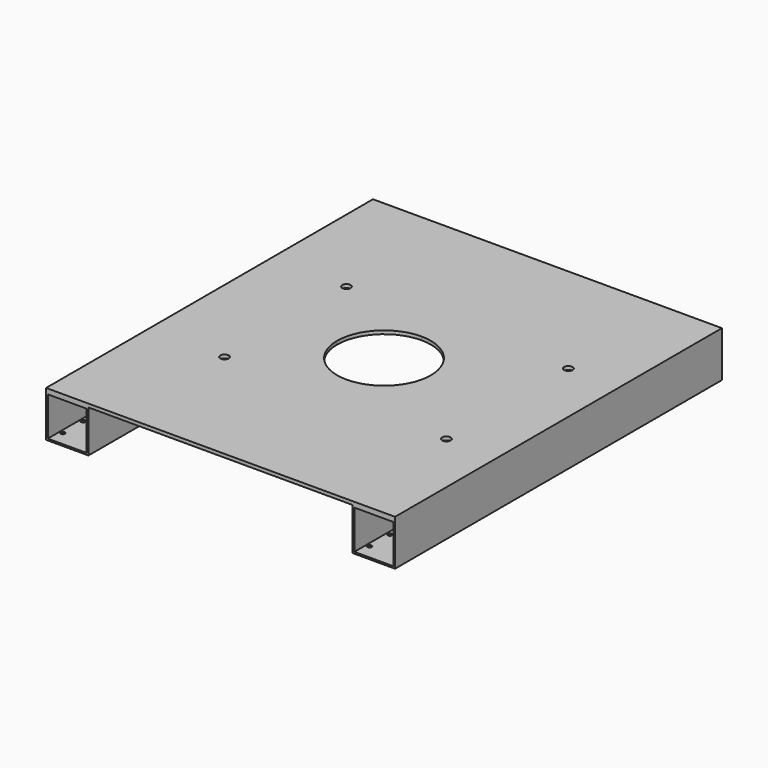
from build123d import *

# Parameters (mm, degrees)
F0_W      = 46
F0_H      = 46
F1_DEPTH  = 482.44
F3_DEPTH  = 25
F5_DEPTH  = 25
F7_DEPTH  = 25
F8_DEPTH  = 25
F9_DEPTH  = 25
F11_DEPTH = 25
F12_DEPTH = 25


with BuildPart() as f1:
    # F0 (on Front) → F1 (new body)
    with BuildSketch(Plane.XZ):
        Polygon((352.900836, -54), (352.900836, -4), (304.900836, -4), (302.900836, -4), (302.900836, -54), align=None)
        with Locations((327.900836, -29)):
            Rectangle(F0_W, F0_H, mode=Mode.SUBTRACT)
        Polygon((352.900836, -4), (352.900836, 0), (-59.099164, 0), (-59.099164, -4), (-57.099164, -4), (-9.099164, -4), (302.900836, -4), (304.900836, -4), align=None)
        Polygon((-57.099164, -4), (-59.099164, -4), (-59.099164, -54), (-9.099164, -54), (-9.099164, -4), align=None)
        with Locations((-34.099164, -29)):
            Rectangle(F0_W, F0_H, mode=Mode.SUBTRACT)
    extrude(amount=F1_DEPTH)

    # F2 (on face) → F3 (cut)
    with BuildSketch(Plane.XY):
        with BuildLine():
            ThreePointArc((202.150836, -241.22), (185.968486, -202.15235), (146.900836, -185.97))
            Line((146.900836, -185.97), (146.900836, -241.22))
            Line((146.900836, -241.22), (202.150836, -241.22))
        make_face()
        with BuildLine():
            Line((146.900836, -241.22), (146.900836, -185.97))
            ThreePointArc((146.900836, -185.97), (107.833186, -202.15235), (91.650836, -241.22))
            Line((91.650836, -241.22), (146.900836, -241.22))
        make_face()
        with BuildLine():
            Line((202.150836, -241.22), (146.900836, -241.22))
            Line((146.900836, -241.22), (146.900836, -296.47))
            ThreePointArc((146.900836, -296.47), (185.968486, -280.28765), (202.150836, -241.22))
        make_face()
        with BuildLine():
            Line((146.900836, -296.47), (146.900836, -241.22))
            Line((146.900836, -241.22), (91.650836, -241.22))
            ThreePointArc((91.650836, -241.22), (107.833186, -280.28765), (146.900836, -296.47))
        make_face()
    extrude(amount=-F3_DEPTH, mode=Mode.SUBTRACT)

    # F4 (on face) → F5 (cut)
    with BuildSketch(Plane(origin=(0, 0, -54), x_dir=(1, 0, 0), z_dir=(0, 0, -1))):
        with BuildLine():
            Line((-14.969164, 47.38), (-17.469164, 47.38))
            ThreePointArc((-17.469164, 47.38), (-16.736931, 45.612233), (-14.969164, 44.88))
            Line((-14.969164, 44.88), (-14.969164, 47.38))
        make_face()
        with BuildLine():
            ThreePointArc((-12.469164, 47.38), (-14.969164, 49.88), (-17.469164, 47.38))
            Line((-17.469164, 47.38), (-14.969164, 47.38))
            Line((-14.969164, 47.38), (-14.969164, 44.88))
            ThreePointArc((-14.969164, 44.88), (-13.201397, 45.612233), (-12.469164, 47.38))
        make_face()
        with BuildLine():
            ThreePointArc((-50.469164, 47.38), (-54.736931, 49.147767), (-52.969164, 44.88))
            Line((-52.969164, 44.88), (-52.969164, 47.38))
            Line((-52.969164, 47.38), (-50.469164, 47.38))
        make_face()
        with BuildLine():
            Line((-52.969164, 47.38), (-52.969164, 44.88))
            ThreePointArc((-52.969164, 44.88), (-51.201397, 45.612233), (-50.469164, 47.38))
            Line((-50.469164, 47.38), (-52.969164, 47.38))
        make_face()
        with BuildLine():
            ThreePointArc((-52.969164, 19.88), (-54.736931, 19.147767), (-55.469164, 17.38))
            Line((-55.469164, 17.38), (-52.969164, 17.38))
            Line((-52.969164, 17.38), (-52.969164, 19.88))
        make_face()
        with BuildLine():
            Line((-52.969164, 17.38), (-55.469164, 17.38))
            ThreePointArc((-55.469164, 17.38), (-52.969164, 14.88), (-50.469164, 17.38))
            ThreePointArc((-50.469164, 17.38), (-51.201397, 19.147767), (-52.969164, 19.88))
            Line((-52.969164, 19.88), (-52.969164, 17.38))
        make_face()
        with BuildLine():
            ThreePointArc((-12.469164, 17.38), (-13.201397, 19.147767), (-14.969164, 19.88))
            ThreePointArc((-14.969164, 19.88), (-16.736931, 15.612233), (-12.469164, 17.38))
        make_face()
    extrude(amount=-F5_DEPTH, mode=Mode.SUBTRACT)

    # F6 (on face) → F7 (cut)
    with BuildSketch(Plane(origin=(0, 0, -54), x_dir=(1, 0, 0), z_dir=(0, 0, -1))):
        with BuildLine():
            ThreePointArc((349.499777, 465.059994), (345.23201, 466.827761), (346.999777, 462.559994))
            ThreePointArc((346.999777, 462.559994), (348.767544, 463.292228), (349.499777, 465.059994))
        make_face()
        with BuildLine():
            Line((346.999777, 435.059994), (344.499777, 435.059994))
            ThreePointArc((344.499777, 435.059994), (346.999777, 432.559994), (349.499777, 435.059994))
            ThreePointArc((349.499777, 435.059994), (348.767544, 436.827761), (346.999777, 437.559994))
            Line((346.999777, 437.559994), (346.999777, 435.059994))
        make_face()
        with BuildLine():
            ThreePointArc((346.999777, 437.559994), (345.23201, 436.827761), (344.499777, 435.059994))
            Line((344.499777, 435.059994), (346.999777, 435.059994))
            Line((346.999777, 435.059994), (346.999777, 437.559994))
        make_face()
        with BuildLine():
            Line((308.999777, 435.059994), (308.999777, 437.559994))
            ThreePointArc((308.999777, 437.559994), (307.23201, 433.292228), (311.499777, 435.059994))
            Line((311.499777, 435.059994), (308.999777, 435.059994))
        make_face()
        with BuildLine():
            ThreePointArc((311.499777, 435.059994), (310.767544, 436.827761), (308.999777, 437.559994))
            Line((308.999777, 437.559994), (308.999777, 435.059994))
            Line((308.999777, 435.059994), (311.499777, 435.059994))
        make_face()
        with BuildLine():
            Line((308.999777, 465.059994), (306.499777, 465.059994))
            ThreePointArc((306.499777, 465.059994), (307.23201, 463.292228), (308.999777, 462.559994))
            Line((308.999777, 462.559994), (308.999777, 465.059994))
        make_face()
        with BuildLine():
            ThreePointArc((311.499777, 465.059994), (308.999777, 467.559994), (306.499777, 465.059994))
            Line((306.499777, 465.059994), (308.999777, 465.059994))
            Line((308.999777, 465.059994), (308.999777, 462.559994))
            ThreePointArc((308.999777, 462.559994), (310.767544, 463.292228), (311.499777, 465.059994))
        make_face()
    extrude(amount=-F7_DEPTH, mode=Mode.SUBTRACT)

    # F6 (on face) → F8 (cut)
    with BuildSketch(Plane(origin=(0, 0, -54), x_dir=(1, 0, 0), z_dir=(0, 0, -1))):
        with BuildLine():
            ThreePointArc((-12.599137, 465.059994), (-16.866904, 466.827761), (-15.099137, 462.559994))
            ThreePointArc((-15.099137, 462.559994), (-13.33137, 463.292228), (-12.599137, 465.059994))
        make_face()
        with BuildLine():
            ThreePointArc((-50.599137, 465.059994), (-53.099137, 467.559994), (-55.599137, 465.059994))
            Line((-55.599137, 465.059994), (-53.099137, 465.059994))
            Line((-53.099137, 465.059994), (-53.099137, 462.559994))
            ThreePointArc((-53.099137, 462.559994), (-51.33137, 463.292228), (-50.599137, 465.059994))
        make_face()
        with BuildLine():
            Line((-53.099137, 465.059994), (-55.599137, 465.059994))
            ThreePointArc((-55.599137, 465.059994), (-54.866904, 463.292228), (-53.099137, 462.559994))
            Line((-53.099137, 462.559994), (-53.099137, 465.059994))
        make_face()
        with BuildLine():
            Line((-53.099137, 435.059994), (-53.099137, 437.559994))
            ThreePointArc((-53.099137, 437.559994), (-54.866904, 433.292228), (-50.599137, 435.059994))
            Line((-50.599137, 435.059994), (-53.099137, 435.059994))
        make_face()
        with BuildLine():
            ThreePointArc((-50.599137, 435.059994), (-51.33137, 436.827761), (-53.099137, 437.559994))
            Line((-53.099137, 437.559994), (-53.099137, 435.059994))
            Line((-53.099137, 435.059994), (-50.599137, 435.059994))
        make_face()
        with BuildLine():
            ThreePointArc((-15.099137, 437.559994), (-16.866904, 436.827761), (-17.599137, 435.059994))
            Line((-17.599137, 435.059994), (-15.099137, 435.059994))
            Line((-15.099137, 435.059994), (-15.099137, 437.559994))
        make_face()
        with BuildLine():
            Line((-15.099137, 435.059994), (-17.599137, 435.059994))
            ThreePointArc((-17.599137, 435.059994), (-15.099137, 432.559994), (-12.599137, 435.059994))
            ThreePointArc((-12.599137, 435.059994), (-13.33137, 436.827761), (-15.099137, 437.559994))
            Line((-15.099137, 437.559994), (-15.099137, 435.059994))
        make_face()
    extrude(amount=-F8_DEPTH, mode=Mode.SUBTRACT)

    # F4 (on face) → F9 (cut)
    with BuildSketch(Plane(origin=(0, 0, -54), x_dir=(1, 0, 0), z_dir=(0, 0, -1))):
        with BuildLine():
            ThreePointArc((-52.969164, 19.88), (-54.736931, 19.147767), (-55.469164, 17.38))
            Line((-55.469164, 17.38), (-52.969164, 17.38))
            Line((-52.969164, 17.38), (-52.969164, 19.88))
        make_face()
        with BuildLine():
            ThreePointArc((-12.469164, 17.38), (-13.201397, 19.147767), (-14.969164, 19.88))
            ThreePointArc((-14.969164, 19.88), (-16.736931, 15.612233), (-12.469164, 17.38))
        make_face()
        with BuildLine():
            ThreePointArc((-12.469164, 47.38), (-14.969164, 49.88), (-17.469164, 47.38))
            Line((-17.469164, 47.38), (-14.969164, 47.38))
            Line((-14.969164, 47.38), (-14.969164, 44.88))
            ThreePointArc((-14.969164, 44.88), (-13.201397, 45.612233), (-12.469164, 47.38))
        make_face()
        with BuildLine():
            Line((-14.969164, 47.38), (-17.469164, 47.38))
            ThreePointArc((-17.469164, 47.38), (-16.736931, 45.612233), (-14.969164, 44.88))
            Line((-14.969164, 44.88), (-14.969164, 47.38))
        make_face()
        with BuildLine():
            ThreePointArc((-50.469164, 47.38), (-54.736931, 49.147767), (-52.969164, 44.88))
            Line((-52.969164, 44.88), (-52.969164, 47.38))
            Line((-52.969164, 47.38), (-50.469164, 47.38))
        make_face()
        with BuildLine():
            Line((-52.969164, 47.38), (-52.969164, 44.88))
            ThreePointArc((-52.969164, 44.88), (-51.201397, 45.612233), (-50.469164, 47.38))
            Line((-50.469164, 47.38), (-52.969164, 47.38))
        make_face()
        with BuildLine():
            Line((-52.969164, 17.38), (-55.469164, 17.38))
            ThreePointArc((-55.469164, 17.38), (-52.969164, 14.88), (-50.469164, 17.38))
            ThreePointArc((-50.469164, 17.38), (-51.201397, 19.147767), (-52.969164, 19.88))
            Line((-52.969164, 19.88), (-52.969164, 17.38))
        make_face()
        with BuildLine():
            ThreePointArc((309.027602, 19.88), (307.259835, 19.147767), (306.527602, 17.38))
            Line((306.527602, 17.38), (309.027602, 17.38))
            Line((309.027602, 17.38), (309.027602, 19.88))
        make_face()
        with BuildLine():
            ThreePointArc((349.527602, 17.38), (348.795369, 19.147767), (347.027602, 19.88))
            ThreePointArc((347.027602, 19.88), (345.259835, 15.612233), (349.527602, 17.38))
        make_face()
        with BuildLine():
            ThreePointArc((349.527602, 47.38), (347.027602, 49.88), (344.527602, 47.38))
            Line((344.527602, 47.38), (347.027602, 47.38))
            Line((347.027602, 47.38), (347.027602, 44.88))
            ThreePointArc((347.027602, 44.88), (348.795369, 45.612233), (349.527602, 47.38))
        make_face()
        with BuildLine():
            Line((347.027602, 47.38), (344.527602, 47.38))
            ThreePointArc((344.527602, 47.38), (345.259835, 45.612233), (347.027602, 44.88))
            Line((347.027602, 44.88), (347.027602, 47.38))
        make_face()
        with BuildLine():
            ThreePointArc((311.527602, 47.38), (307.259835, 49.147767), (309.027602, 44.88))
            Line((309.027602, 44.88), (309.027602, 47.38))
            Line((309.027602, 47.38), (311.527602, 47.38))
        make_face()
        with BuildLine():
            Line((309.027602, 47.38), (309.027602, 44.88))
            ThreePointArc((309.027602, 44.88), (310.795369, 45.612233), (311.527602, 47.38))
            Line((311.527602, 47.38), (309.027602, 47.38))
        make_face()
        with BuildLine():
            Line((309.027602, 17.38), (306.527602, 17.38))
            ThreePointArc((306.527602, 17.38), (309.027602, 14.88), (311.527602, 17.38))
            ThreePointArc((311.527602, 17.38), (310.795369, 19.147767), (309.027602, 19.88))
            Line((309.027602, 19.88), (309.027602, 17.38))
        make_face()
    extrude(amount=-F9_DEPTH, mode=Mode.SUBTRACT)

    # F10 (on face) → F11 (cut)
    with BuildSketch(Plane.XY):
        with BuildLine():
            ThreePointArc((30.740825, -326.4), (25.740825, -331.4), (30.740825, -336.4))
            Line((30.740825, -336.4), (30.740825, -331.4))
            Line((30.740825, -331.4), (30.740825, -326.4))
        make_face()
        with BuildLine():
            ThreePointArc((297.740825, -331.4), (296.276359, -327.864466), (292.740825, -326.4))
            ThreePointArc((292.740825, -326.4), (287.740835, -331.410006), (292.760836, -336.39996))
            ThreePointArc((292.760836, -336.39996), (296.283427, -334.928452), (297.740825, -331.4))
        make_face()
        with BuildLine():
            ThreePointArc((297.740825, -151.4), (292.740825, -146.4), (287.740825, -151.4))
            Line((287.740825, -151.4), (292.740825, -151.4))
            Line((292.740825, -151.4), (292.740825, -156.4))
            ThreePointArc((292.740825, -156.4), (296.276359, -154.935534), (297.740825, -151.4))
        make_face()
        with BuildLine():
            Line((292.740825, -151.4), (287.740825, -151.4))
            ThreePointArc((287.740825, -151.4), (289.205291, -154.935534), (292.740825, -156.4))
            Line((292.740825, -156.4), (292.740825, -151.4))
        make_face()
        with BuildLine():
            ThreePointArc((35.740825, -151.4), (27.205291, -147.864466), (30.740825, -156.4))
            Line((30.740825, -156.4), (30.740825, -151.4))
            Line((30.740825, -151.4), (35.740825, -151.4))
        make_face()
        with BuildLine():
            Line((30.740825, -151.4), (30.740825, -156.4))
            ThreePointArc((30.740825, -156.4), (34.276359, -154.935534), (35.740825, -151.4))
            Line((35.740825, -151.4), (30.740825, -151.4))
        make_face()
        with BuildLine():
            Line((30.740825, -331.4), (30.740825, -336.4))
            ThreePointArc((30.740825, -336.4), (34.276359, -334.935534), (35.740825, -331.4))
            ThreePointArc((35.740825, -331.4), (34.276359, -327.864466), (30.740825, -326.4))
            Line((30.740825, -326.4), (30.740825, -331.4))
        make_face()
    extrude(amount=-F11_DEPTH, mode=Mode.SUBTRACT)

    # F10 (on face) → F12 (cut)
    with BuildSketch(Plane.XY):
        with BuildLine():
            ThreePointArc((30.740825, -326.4), (25.740825, -331.4), (30.740825, -336.4))
            Line((30.740825, -336.4), (30.740825, -331.4))
            Line((30.740825, -331.4), (30.740825, -326.4))
        make_face()
        with BuildLine():
            ThreePointArc((297.740825, -331.4), (296.276359, -327.864466), (292.740825, -326.4))
            ThreePointArc((292.740825, -326.4), (287.740835, -331.410006), (292.760836, -336.39996))
            ThreePointArc((292.760836, -336.39996), (296.283427, -334.928452), (297.740825, -331.4))
        make_face()
        with BuildLine():
            ThreePointArc((297.740825, -151.4), (292.740825, -146.4), (287.740825, -151.4))
            Line((287.740825, -151.4), (292.740825, -151.4))
            Line((292.740825, -151.4), (292.740825, -156.4))
            ThreePointArc((292.740825, -156.4), (296.276359, -154.935534), (297.740825, -151.4))
        make_face()
        with BuildLine():
            Line((292.740825, -151.4), (287.740825, -151.4))
            ThreePointArc((287.740825, -151.4), (289.205291, -154.935534), (292.740825, -156.4))
            Line((292.740825, -156.4), (292.740825, -151.4))
        make_face()
        with BuildLine():
            ThreePointArc((35.740825, -151.4), (27.205291, -147.864466), (30.740825, -156.4))
            Line((30.740825, -156.4), (30.740825, -151.4))
            Line((30.740825, -151.4), (35.740825, -151.4))
        make_face()
        with BuildLine():
            Line((30.740825, -151.4), (30.740825, -156.4))
            ThreePointArc((30.740825, -156.4), (34.276359, -154.935534), (35.740825, -151.4))
            Line((35.740825, -151.4), (30.740825, -151.4))
        make_face()
        with BuildLine():
            Line((30.740825, -331.4), (30.740825, -336.4))
            ThreePointArc((30.740825, -336.4), (34.276359, -334.935534), (35.740825, -331.4))
            ThreePointArc((35.740825, -331.4), (34.276359, -327.864466), (30.740825, -326.4))
            Line((30.740825, -326.4), (30.740825, -331.4))
        make_face()
    extrude(amount=-F12_DEPTH, mode=Mode.SUBTRACT)


solid = f1.part
